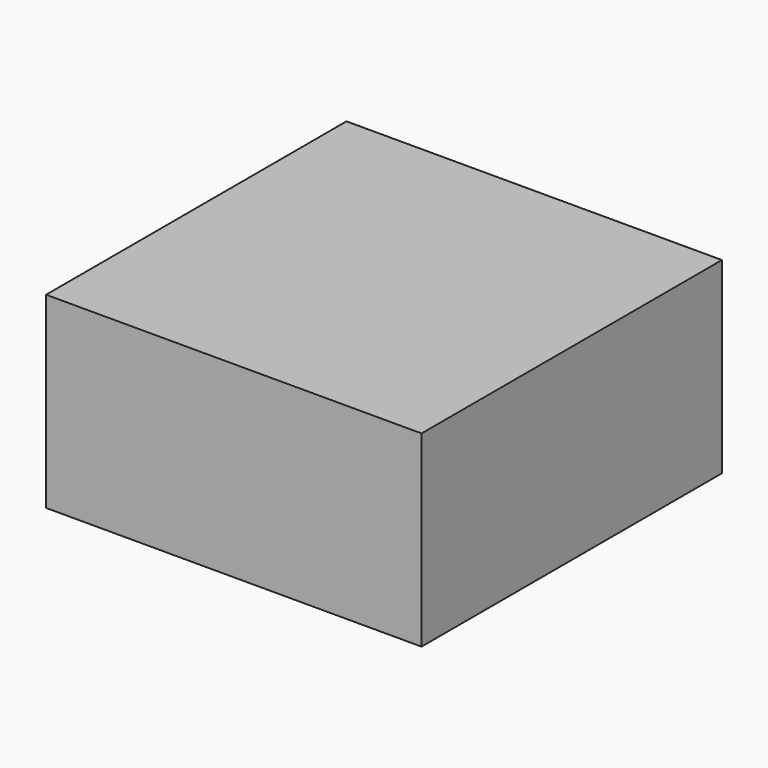
from build123d import *

# Parameters (mm, degrees)
SKETCH003_W             = 200
SKETCH003_H             = 200
PAD002_DEPTH            = 100
SKETCH004_W             = 180
SKETCH004_H             = 180
POCKET001_DEPTH         = 90
SKETCH005_R             = 2.5
PAD003_DEPTH            = 50
LINEARPATTERN001_COUNT  = 2
LINEARPATTERN001_PITCH  = 100
BODY003_PLACEMENT_ANGLE = 180


with BuildPart() as part:
    # Sketch003 → Pad002 (new body)
    with BuildSketch(Plane.XY):
        Rectangle(SKETCH003_W, SKETCH003_H)
    extrude(amount=PAD002_DEPTH)

    # Sketch004 (on Face6 of Pad002) → Pocket001 (cut)
    with BuildSketch(Plane.XY.offset(100)):
        Rectangle(SKETCH004_W, SKETCH004_H)
    extrude(amount=-POCKET001_DEPTH, mode=Mode.SUBTRACT)

    # Sketch005 (on Face6 of Pocket001) → Pad003 (join)
    with BuildSketch(Plane.XZ.offset(100)):
        with BuildLine():
            ThreePointArc((-101.243422, 100.055887), (-107.925827, 104.903535), (-110.016374, 96.917056))
            Line((-110.016374, 96.917056), (-99.591536, 85.891823))
            Line((-99.591536, 85.891823), (-99.5, 100.055887))
            Line((-99.5, 100.055887), (-101.243422, 100.055887))
        make_face()
        with Locations((-106.241464, 100.195784)):
            Circle(SKETCH005_R, mode=Mode.SUBTRACT)
    pad003 = extrude(amount=-PAD003_DEPTH)

    # LinearPattern001: Pad003 ×2
    with Locations(*[(0, i * LINEARPATTERN001_PITCH, 0) for i in range(1, LINEARPATTERN001_COUNT)]):
        add(pad003)


with BuildPart() as part_1:
    # Body003 placement: moved
    add(part.part.moved(Location((0, 0, 200.5))).rotate(Axis((0, 0, 200.5), (1, 0, 0)), BODY003_PLACEMENT_ANGLE))


solid = part_1.part
